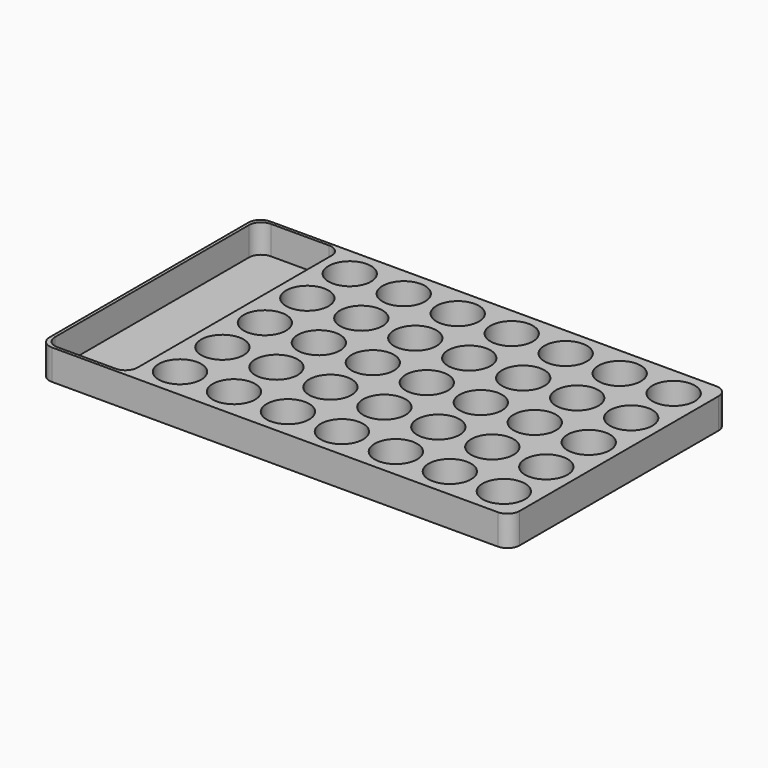
from build123d import *

# Parameters (mm, degrees)
F0_R     = 8.89
F1_DEPTH = 12.7
F0_W     = 34.590188
F0_H     = 111.76
F2_DEPTH = 0.762
F3_R     = 5.08


with BuildPart() as f1:
    # F0 (on Top) → F1 (new body)
    with BuildSketch(Plane.XY):
        Polygon((80.518, -57.15), (80.518, 57.15), (-80.518, 57.15), (-80.518, 55.88), (-80.518, -55.88), (-80.518, -57.15), align=None)
        with Locations((-67.818, -44.45)):
            Circle(F0_R, mode=Mode.SUBTRACT)
        with Locations((-45.212, -44.45)):
            Circle(F0_R, mode=Mode.SUBTRACT)
        with Locations((-22.606, -44.45)):
            Circle(F0_R, mode=Mode.SUBTRACT)
        with Locations((-67.818, -22.225)):
            Circle(F0_R, mode=Mode.SUBTRACT)
        with Locations((-45.212, -22.225)):
            Circle(F0_R, mode=Mode.SUBTRACT)
        with Locations((-22.606, -22.225)):
            Circle(F0_R, mode=Mode.SUBTRACT)
        with Locations((0, -44.45)):
            Circle(F0_R, mode=Mode.SUBTRACT)
        with Locations((22.606, -44.45)):
            Circle(F0_R, mode=Mode.SUBTRACT)
        with Locations((45.212, -44.45)):
            Circle(F0_R, mode=Mode.SUBTRACT)
        with Locations((67.818, -44.45)):
            Circle(F0_R, mode=Mode.SUBTRACT)
        with Locations((0, -22.225)):
            Circle(F0_R, mode=Mode.SUBTRACT)
        with Locations((22.606, -22.225)):
            Circle(F0_R, mode=Mode.SUBTRACT)
        with Locations((45.212, -22.225)):
            Circle(F0_R, mode=Mode.SUBTRACT)
        with Locations((67.818, -22.225)):
            Circle(F0_R, mode=Mode.SUBTRACT)
        with Locations((-67.818, 0)):
            Circle(F0_R, mode=Mode.SUBTRACT)
        with Locations((-67.818, 22.225)):
            Circle(F0_R, mode=Mode.SUBTRACT)
        with Locations((-45.212, 0)):
            Circle(F0_R, mode=Mode.SUBTRACT)
        with Locations((-22.606, 0)):
            Circle(F0_R, mode=Mode.SUBTRACT)
        with Locations((-45.212, 22.225)):
            Circle(F0_R, mode=Mode.SUBTRACT)
        with Locations((-22.606, 22.225)):
            Circle(F0_R, mode=Mode.SUBTRACT)
        with Locations((-67.818, 44.45)):
            Circle(F0_R, mode=Mode.SUBTRACT)
        with Locations((-45.212, 44.45)):
            Circle(F0_R, mode=Mode.SUBTRACT)
        with Locations((-22.606, 44.45)):
            Circle(F0_R, mode=Mode.SUBTRACT)
        Circle(F0_R, mode=Mode.SUBTRACT)
        with Locations((22.606, 0)):
            Circle(F0_R, mode=Mode.SUBTRACT)
        with Locations((0, 22.225)):
            Circle(F0_R, mode=Mode.SUBTRACT)
        with Locations((22.606, 22.225)):
            Circle(F0_R, mode=Mode.SUBTRACT)
        with Locations((45.212, 0)):
            Circle(F0_R, mode=Mode.SUBTRACT)
        with Locations((67.818, 0)):
            Circle(F0_R, mode=Mode.SUBTRACT)
        with Locations((45.212, 22.225)):
            Circle(F0_R, mode=Mode.SUBTRACT)
        with Locations((67.818, 22.225)):
            Circle(F0_R, mode=Mode.SUBTRACT)
        with Locations((0, 44.45)):
            Circle(F0_R, mode=Mode.SUBTRACT)
        with Locations((22.606, 44.45)):
            Circle(F0_R, mode=Mode.SUBTRACT)
        with Locations((45.212, 44.45)):
            Circle(F0_R, mode=Mode.SUBTRACT)
        with Locations((67.818, 44.45)):
            Circle(F0_R, mode=Mode.SUBTRACT)
        Polygon((-80.518, 55.88), (-80.518, 57.15), (-116.378188, 57.15), (-116.378188, -57.15), (-80.518, -57.15), (-80.518, -55.88), (-115.108188, -55.88), (-115.108188, 55.88), align=None)
    extrude(amount=F1_DEPTH)

    # F0 (on Top) → F2 (join)
    with BuildSketch(Plane.XY):
        with Locations((-67.818, 44.45)):
            Circle(F0_R)
        with Locations((-45.212, 44.45)):
            Circle(F0_R)
        with Locations((-22.606, 44.45)):
            Circle(F0_R)
        with Locations((0, 44.45)):
            Circle(F0_R)
        with Locations((22.606, 44.45)):
            Circle(F0_R)
        with Locations((45.212, 44.45)):
            Circle(F0_R)
        with Locations((67.818, 44.45)):
            Circle(F0_R)
        with Locations((67.818, 22.225)):
            Circle(F0_R)
        with Locations((45.212, 22.225)):
            Circle(F0_R)
        with Locations((22.606, 22.225)):
            Circle(F0_R)
        with Locations((0, 22.225)):
            Circle(F0_R)
        with Locations((-22.606, 22.225)):
            Circle(F0_R)
        with Locations((-45.212, 22.225)):
            Circle(F0_R)
        with Locations((-67.818, 22.225)):
            Circle(F0_R)
        with Locations((-67.818, 0)):
            Circle(F0_R)
        with Locations((-45.212, 0)):
            Circle(F0_R)
        with Locations((-22.606, 0)):
            Circle(F0_R)
        Circle(F0_R)
        with Locations((22.606, 0)):
            Circle(F0_R)
        with Locations((45.212, 0)):
            Circle(F0_R)
        with Locations((67.818, 0)):
            Circle(F0_R)
        with Locations((67.818, -22.225)):
            Circle(F0_R)
        with Locations((45.212, -22.225)):
            Circle(F0_R)
        with Locations((22.606, -22.225)):
            Circle(F0_R)
        with Locations((0, -22.225)):
            Circle(F0_R)
        with Locations((-22.606, -22.225)):
            Circle(F0_R)
        with Locations((-45.212, -22.225)):
            Circle(F0_R)
        with Locations((-67.818, -22.225)):
            Circle(F0_R)
        with Locations((-67.818, -44.45)):
            Circle(F0_R)
        with Locations((-45.212, -44.45)):
            Circle(F0_R)
        with Locations((-22.606, -44.45)):
            Circle(F0_R)
        with Locations((0, -44.45)):
            Circle(F0_R)
        with Locations((22.606, -44.45)):
            Circle(F0_R)
        with Locations((45.212, -44.45)):
            Circle(F0_R)
        with Locations((67.818, -44.45)):
            Circle(F0_R)
        with Locations((-97.813094, 0)):
            Rectangle(F0_W, F0_H)
    extrude(amount=F2_DEPTH)

    # F3
    f3_edges = [f1.edges().sort_by_distance(p)[0] for p in [
        (80.518, 57.15, 6.35),
        (80.518, -57.15, 6.35),
        (-80.518, -55.88, 6.731),
        (-80.518, 55.88, 6.731),
        (-115.108188, 55.88, 6.731),
        (-115.108188, -55.88, 6.731),
        (-116.378188, -57.15, 6.35),
        (-116.378188, 57.15, 6.35),
    ]]
    fillet(f3_edges, radius=F3_R)


solid = f1.part
